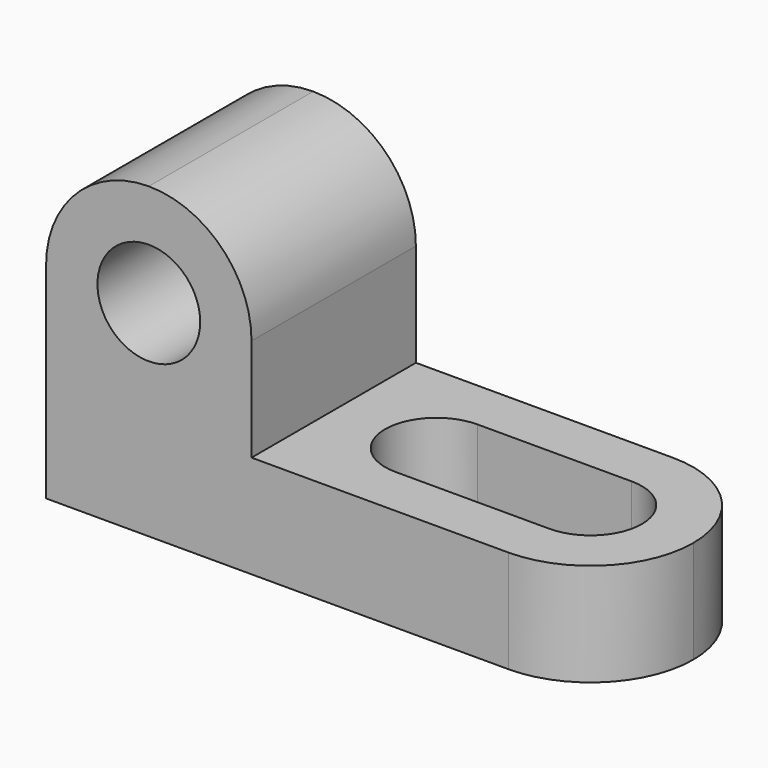
from build123d import *

# Parameters (mm, degrees)
F0_W      = 69.85
F0_H      = 25.4
F1_DEPTH  = 38.1
F2_W      = 44.45
F2_H      = 25.4
F3_DEPTH  = 25.4
F4_R      = 6.35
F5_DEPTH  = 25.4
F7_DEPTH  = 25.4
F8_R      = 6.35
F9_DEPTH  = 12.7
F11_DEPTH = 12.7
F13_DEPTH = 25.4


with BuildPart() as f1:
    # F0 (on Top) → F1 (new body)
    with BuildSketch(Plane.XY):
        with Locations((0.7752887905, -11.7177964306)):
            Rectangle(F0_W, F0_H)
    extrude(amount=F1_DEPTH)

    # F2 (on face) → F3 (cut)
    with BuildSketch(Plane.XZ.offset(24.4177964306)):
        with Locations((13.4752887905, 25.4)):
            Rectangle(F2_W, F2_H)
    extrude(amount=-F3_DEPTH, mode=Mode.SUBTRACT)

    # F4 (on face) → F5 (cut)
    with BuildSketch(Plane.XZ.offset(24.4177964306)):
        with Locations((-21.4497112095, 25.4)):
            Circle(F4_R)
    extrude(amount=-F5_DEPTH, mode=Mode.SUBTRACT)

    # F6 (on face) → F7 (cut)
    with BuildSketch(Plane.XZ.offset(24.4177964306)):
        with BuildLine():
            Line((-21.4497112095, 38.1), (-34.1497112095, 38.1))
            Line((-34.1497112095, 38.1), (-34.1497112095, 25.4))
            ThreePointArc((-34.1497112095, 25.4), (-30.4299673306, 34.3802561211), (-21.4497112095, 38.1))
        make_face()
        with BuildLine():
            Line((-8.7497112095, 38.1), (-21.4497112095, 38.1))
            ThreePointArc((-21.4497112095, 38.1), (-12.4694550885, 34.3802561211), (-8.7497112095, 25.4))
            Line((-8.7497112095, 25.4), (-8.7497112095, 38.1))
        make_face()
    extrude(amount=-F7_DEPTH, mode=Mode.SUBTRACT)

    # F8 (on face) → F9 (cut)
    with BuildSketch(Plane.XY.offset(12.7)):
        with Locations((23.0002887905, -11.7177964306)):
            Circle(F8_R)
        with Locations((3.9502887905, -11.7177964306)):
            Circle(F8_R)
    extrude(amount=-F9_DEPTH, mode=Mode.SUBTRACT)

    # F10 (on face) → F11 (cut)
    with BuildSketch(Plane.XY.offset(12.7)):
        with BuildLine():
            Line((3.9502887905, -18.0677964306), (23.0002887905, -18.0677964306))
            ThreePointArc((23.0002887905, -18.0677964306), (16.6502887905, -11.7177964306), (23.0002887905, -5.3677964306))
            Line((23.0002887905, -5.3677964306), (3.9502887905, -5.3677964306))
            ThreePointArc((3.9502887905, -5.3677964306), (8.440416851, -7.2276683701), (10.3002887905, -11.7177964306))
            ThreePointArc((10.3002887905, -11.7177964306), (8.440416851, -16.2079244912), (3.9502887905, -18.0677964306))
        make_face()
    extrude(amount=-F11_DEPTH, mode=Mode.SUBTRACT)

    # F12 (on face) → F13 (cut)
    with BuildSketch(Plane.XY.offset(12.7)):
        with BuildLine():
            ThreePointArc((23.0002887905, 0.9822035694), (31.9805449115, -2.7375403096), (35.7002887905, -11.7177964306))
            Line((35.7002887905, -11.7177964306), (35.7002887905, 0.9822035694))
            Line((35.7002887905, 0.9822035694), (23.0002887905, 0.9822035694))
        make_face()
        with BuildLine():
            Line((23.0002887905, -24.4177964306), (35.7002887905, -24.4177964306))
            Line((35.7002887905, -24.4177964306), (35.7002887905, -11.7177964306))
            ThreePointArc((35.7002887905, -11.7177964306), (31.9805449115, -20.6980525517), (23.0002887905, -24.4177964306))
        make_face()
    extrude(amount=-F13_DEPTH, mode=Mode.SUBTRACT)


solid = f1.part
